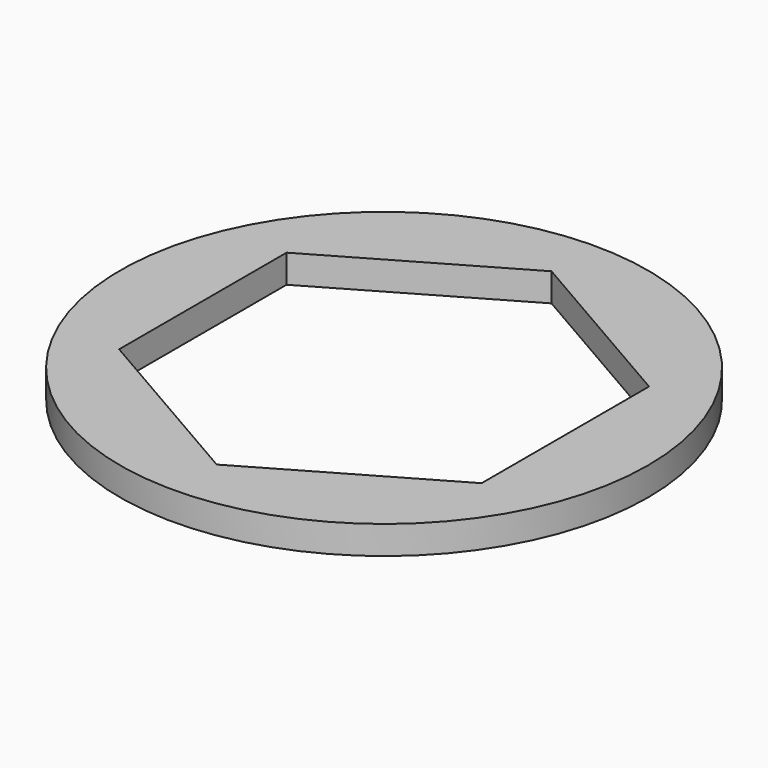
from build123d import *

# Parameters (mm, degrees)
F0_R     = 14
F1_DEPTH = 1.5


with BuildPart() as f1:
    # F0 (on Top) → F1 (new body)
    with BuildSketch(Plane.XY):
        Circle(F0_R)
        Polygon((-9.612882, -5.55), (-9.612882, 0), (-9.612882, 5.55), (0, 11.1), (9.612882, 5.55), (9.612882, 0), (9.612882, -5.55), (0, -11.1), align=None, mode=Mode.SUBTRACT)
    extrude(amount=F1_DEPTH)


solid = f1.part
